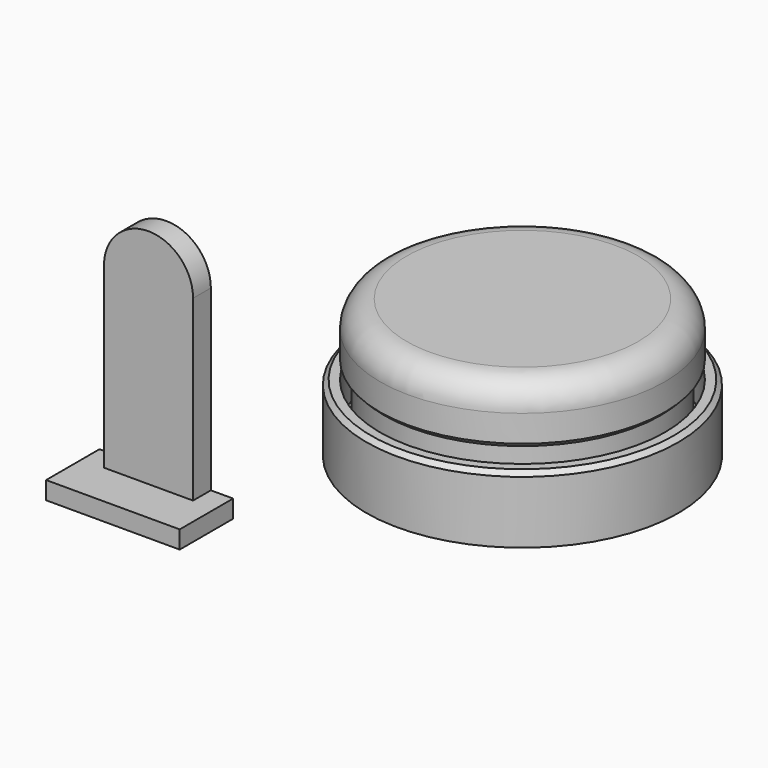
from build123d import *

# Parameters (mm, degrees)
F0_R      = 44.45
F1_DEPTH  = 19.05
F2_R      = 40.64
F3_DEPTH  = 12.7
F4_R      = 38.1
F5_DEPTH  = 16.51
F6_R      = 40.64
F7_DEPTH  = 16.51
F8_R      = 7.62
F9_SIZE   = 1.27
F9_2_SIZE = 1.27
F10_W     = 38.1
F10_H     = 19.05
F11_DEPTH = 5.08
F12_W     = 25.4
F12_H     = 6.35
F13_DEPTH = 50.8
F15_DEPTH = 6.35


with BuildPart() as f1:
    # F0 (on Top) → F1 (new body)
    with BuildSketch(Plane.XY):
        Circle(F0_R)
    extrude(amount=F1_DEPTH)

    # F2 (on face) → F3 (cut)
    with BuildSketch(Plane.XY.offset(19.05)):
        Circle(F2_R)
    extrude(amount=-F3_DEPTH, mode=Mode.SUBTRACT)

    # F9
    f9_edges = [f1.edges().sort_by_distance(p)[0] for p in [
        (-44.45, 0, 19.05),
    ]]
    chamfer(f9_edges, length=F9_SIZE)


with BuildPart() as f5:
    # F4 (on face) → F5 (new body)
    with BuildSketch(Plane.XY.offset(6.35)):
        Circle(F4_R)
    extrude(amount=F5_DEPTH)

    # F6 (on face) → F7 (join)
    with BuildSketch(Plane.XY.offset(22.86)):
        Circle(F6_R)
    extrude(amount=F7_DEPTH)

    # F8
    f8_edges = [f5.edges().sort_by_distance(p)[0] for p in [
        (-40.64, 0, 39.37),
    ]]
    fillet(f8_edges, radius=F8_R)

    # F9#2
    f9_2_edges = [f5.edges().sort_by_distance(p)[0] for p in [
        (-40.64, 0, 22.86),
    ]]
    chamfer(f9_2_edges, length=F9_2_SIZE)


with BuildPart() as f11:
    # F10 (on Top) → F11 (new body)
    with BuildSketch(Plane.XY):
        with Locations((-56.4140207897, -65.9483543515)):
            Rectangle(F10_W, F10_H)
    extrude(amount=-F11_DEPTH)

    # F12 (on face) → F13 (join)
    with BuildSketch(Plane.XY):
        with Locations((-56.4140207897, -59.5983543515)):
            Rectangle(F12_W, F12_H)
    extrude(amount=F13_DEPTH)

    # F14 (on face) → F15 (join)
    with BuildSketch(Plane.XZ.offset(62.7733543515)):
        with BuildLine():
            Line((-69.1140207897, 50.8), (-43.7140207897, 50.8))
            ThreePointArc((-43.7140207897, 50.8), (-56.4140207897, 63.5), (-69.1140207897, 50.8))
        make_face()
    extrude(amount=-F15_DEPTH)


solid = Compound([f1.part, f5.part, f11.part])
